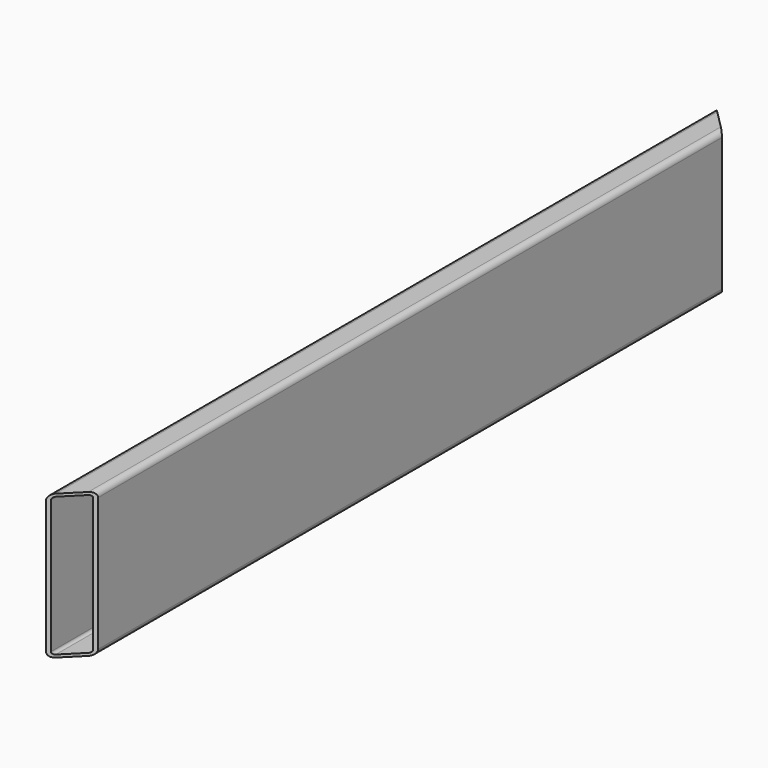
from build123d import *

# Parameters (mm, degrees)
F1_DEPTH = 1473.939
F3_DEPTH = 254.001
F5_DEPTH = 6.35


with BuildPart() as f1:
    # F0 (on Front) → F1 (new body)
    with BuildSketch(Plane.XZ):
        with BuildLine():
            Line((-41.275, 0), (-9.525, 0))
            ThreePointArc((-9.525, 0), (-2.789808, 2.789808), (0, 9.525))
            Line((0, 9.525), (0, 244.475))
            ThreePointArc((0, 244.475), (-2.789808, 251.210192), (-9.525, 254))
            Line((-9.525, 254), (-41.275, 254))
            ThreePointArc((-41.275, 254), (-48.010192, 251.210192), (-50.8, 244.475))
            Line((-50.8, 244.475), (-50.8, 9.525))
            ThreePointArc((-50.8, 9.525), (-48.010192, 2.789808), (-41.275, 0))
        make_face()
        with BuildLine():
            ThreePointArc((-46.0502, 244.5004), (-44.659016, 247.859016), (-41.3004, 249.2502))
            Line((-41.3004, 249.2502), (-9.4996, 249.2502))
            ThreePointArc((-9.4996, 249.2502), (-6.140984, 247.859016), (-4.7498, 244.5004))
            Line((-4.7498, 244.5004), (-4.7498, 9.4996))
            ThreePointArc((-4.7498, 9.4996), (-6.140984, 6.140984), (-9.4996, 4.7498))
            Line((-9.4996, 4.7498), (-41.3004, 4.7498))
            ThreePointArc((-41.3004, 4.7498), (-44.659016, 6.140984), (-46.0502, 9.4996))
            Line((-46.0502, 9.4996), (-46.0502, 244.5004))
        make_face(mode=Mode.SUBTRACT)
    extrude(amount=F1_DEPTH)

    # F2 (on face) → F3 (cut, through all)
    with BuildSketch(Plane.XY.offset(254)):
        Polygon((0, -1423.139), (-50.8, -1473.939), (0, -1473.939), align=None)
        Polygon((0, 0), (-50.8, 0), (0, -50.8), align=None)
    extrude(amount=-F3_DEPTH, mode=Mode.SUBTRACT)


with BuildPart() as f5:
    # F4 (on face) → F5 (new body)
    with BuildSketch(Plane.YZ):
        with BuildLine():
            ThreePointArc((-262.900179, 386.417484), (-267.477327, 385.56399), (-271.439268, 383.118226))
            Line((-271.439268, 383.118226), (-298.414744, 358.615267))
            ThreePointArc((-298.414744, 358.615267), (-301.488932, 354.354737), (-302.575654, 349.214525))
            Line((-302.575654, 349.214525), (-302.575654, 238.994726))
            ThreePointArc((-302.575654, 238.994726), (-298.85591, 230.01447), (-289.875654, 226.294726))
            Line((-289.875654, 226.294726), (-220.098802, 226.294726))
            ThreePointArc((-220.098802, 226.294726), (-211.118546, 230.01447), (-207.398802, 238.994726))
            Line((-207.398802, 238.994726), (-207.398802, 373.717484))
            ThreePointArc((-207.398802, 373.717484), (-211.118546, 382.69774), (-220.098802, 386.417484))
            Line((-220.098802, 386.417484), (-262.900179, 386.417484))
        make_face()
    extrude(amount=F5_DEPTH)


with BuildPart() as f6_1:
    # F6: copy of F5
    add(f5.part)


solid = f1.part
